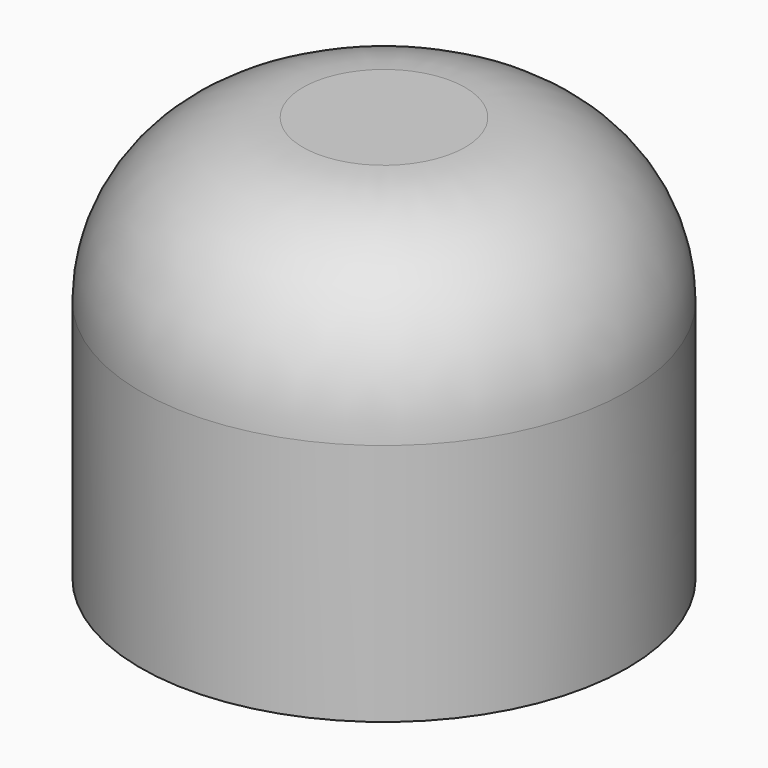
from build123d import *

# Parameters (mm, degrees)
SKETCH_R     = 6
PAD_DEPTH    = 10
SKETCH001_R  = 3
POCKET_DEPTH = 9
FILLET_R     = 4


with BuildPart() as part:
    # Sketch → Pad (new body)
    with BuildSketch(Plane.XY):
        Circle(SKETCH_R)
    extrude(amount=PAD_DEPTH)

    # Sketch001 (on Face2 of Pad) → Pocket (cut)
    with BuildSketch(Plane(origin=(0, 0, 0), x_dir=(1, 0, 0), z_dir=(0, 0, -1))):
        Circle(SKETCH001_R)
    extrude(amount=-POCKET_DEPTH, mode=Mode.SUBTRACT)

    # Fillet
    fillet_edges = [part.edges().sort_by_distance(p)[0] for p in [
        (-6, 0, 10),
    ]]
    fillet(fillet_edges, radius=FILLET_R)


solid = part.part
